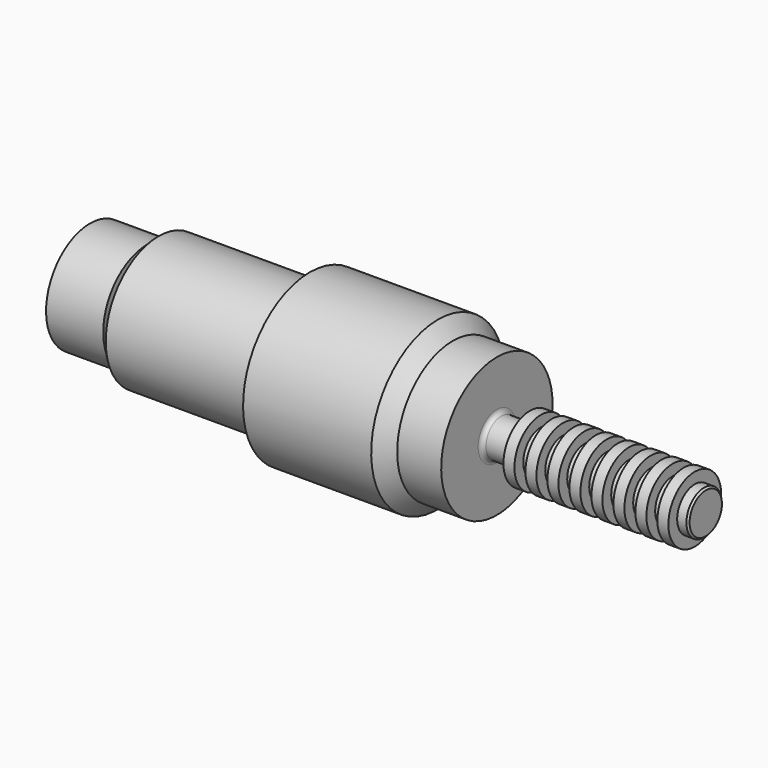
from build123d import *


with BuildPart() as f1:
    # F0 (on Front) → F1 (revolve)
    with BuildSketch(Plane.XZ):
        with BuildLine():
            Line((-57.595425, 25), (-57.595425, 0))
            Line((-57.595425, 0), (197.404575, 0))
            Line((197.404575, 0), (202.404575, 0))
            Line((202.404575, 0), (222.404575, 0))
            Line((222.404575, 0), (222.404575, 9.190135))
            Line((222.404575, 9.190135), (221.609622, 10))
            Line((221.609622, 10), (217.404575, 10))
            Line((217.404575, 10), (217.404575, 15))
            Line((217.404575, 15), (212.404575, 15))
            Line((212.404575, 15), (212.404575, 10))
            Line((212.404575, 10), (207.404575, 10))
            Line((207.404575, 10), (207.404575, 15))
            Line((207.404575, 15), (202.404575, 15))
            Line((202.404575, 15), (202.404575, 10))
            Line((202.404575, 10), (197.404575, 10))
            Line((197.404575, 10), (197.404575, 15))
            Line((197.404575, 15), (192.404575, 15))
            Line((192.404575, 15), (192.404575, 10))
            Line((192.404575, 10), (187.404575, 10))
            Line((187.404575, 10), (187.404575, 15))
            Line((187.404575, 15), (182.404575, 15))
            Line((182.404575, 15), (182.404575, 10))
            Line((182.404575, 10), (177.404575, 10))
            Line((177.404575, 10), (177.404575, 15))
            Line((177.404575, 15), (172.404575, 15))
            Line((172.404575, 15), (172.404575, 10))
            Line((172.404575, 10), (167.404575, 10))
            Line((167.404575, 10), (167.404575, 15))
            Line((167.404575, 15), (162.404575, 15))
            Line((162.404575, 15), (162.404575, 10))
            Line((162.404575, 10), (157.404575, 10))
            Line((157.404575, 10), (157.404575, 15))
            Line((157.404575, 15), (152.404575, 15))
            Line((152.404575, 15), (152.404575, 10))
            Line((152.404575, 10), (147.404575, 10))
            Line((147.404575, 10), (147.404575, 15))
            Line((147.404575, 15), (142.404575, 15))
            Line((142.404575, 15), (142.404575, 8.655758))
            Line((142.404575, 8.655758), (138.748817, 8.655758))
            Line((138.748817, 8.655758), (129.404575, 8.655758))
            ThreePointArc((129.404575, 8.655758), (127.990362, 9.241545), (127.404575, 10.655758))
            Line((127.404575, 10.655758), (127.404575, 15))
            Line((127.404575, 15), (127.404575, 31.641221))
            Line((127.404575, 31.641221), (107.404575, 31.641221))
            Line((107.404575, 31.641221), (100.658208, 38))
            Line((100.658208, 38), (42.404575, 38))
            Line((42.404575, 38), (42.404575, 30))
            Line((42.404575, 30), (-26.442204, 30))
            Line((-26.442204, 30), (-31.595425, 25))
            Line((-31.595425, 25), (-57.595425, 25))
        make_face()
    revolve(axis=Axis((82.404575, 0, 0), (1, 0, 0)))


solid = f1.part
